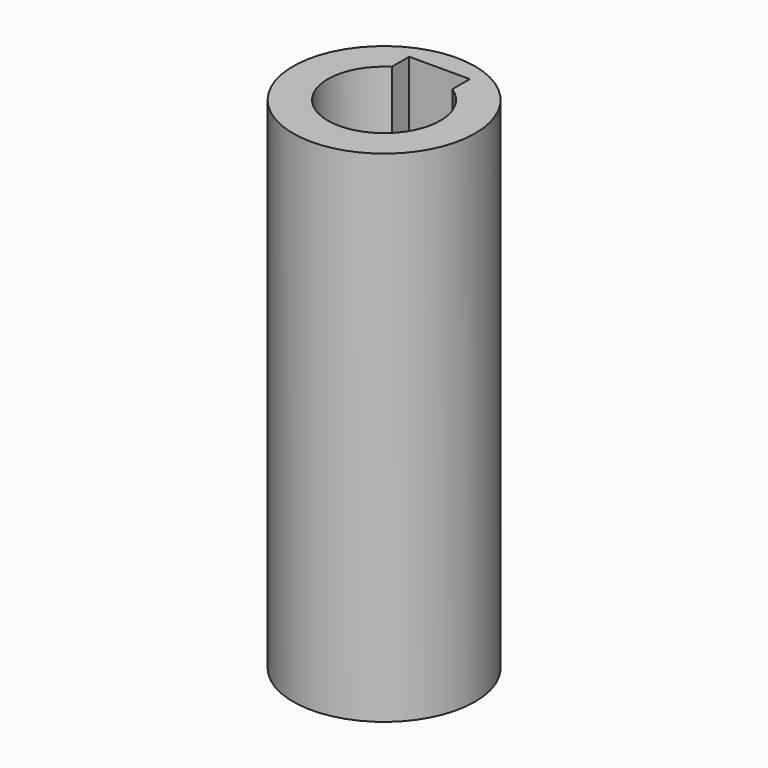
from build123d import *

# Parameters (mm, degrees)
F0_R     = 26.697036
F0_R_2   = 16.515215
F1_DEPTH = 146.796286
F3_DEPTH = 146.796286


with BuildPart() as f1:
    # F0 (on Top) → F1 (new body)
    with BuildSketch(Plane.XY):
        Circle(F0_R)
        Circle(F0_R_2, mode=Mode.SUBTRACT)
    extrude(amount=F1_DEPTH)

    # F2 (on face) → F3 (cut, through all)
    with BuildSketch(Plane(origin=(0, 0, 0), x_dir=(1, 0, 0), z_dir=(0, 0, -1))):
        with BuildLine():
            Line((-8.89, -20.32), (8.89, -20.32))
            Line((8.89, -20.32), (8.89, -13.918341))
            ThreePointArc((8.89, -13.918341), (0, -16.515215), (-8.89, -13.918341))
            Line((-8.89, -13.918341), (-8.89, -20.32))
        make_face()
    extrude(amount=-F3_DEPTH, mode=Mode.SUBTRACT)


solid = f1.part
